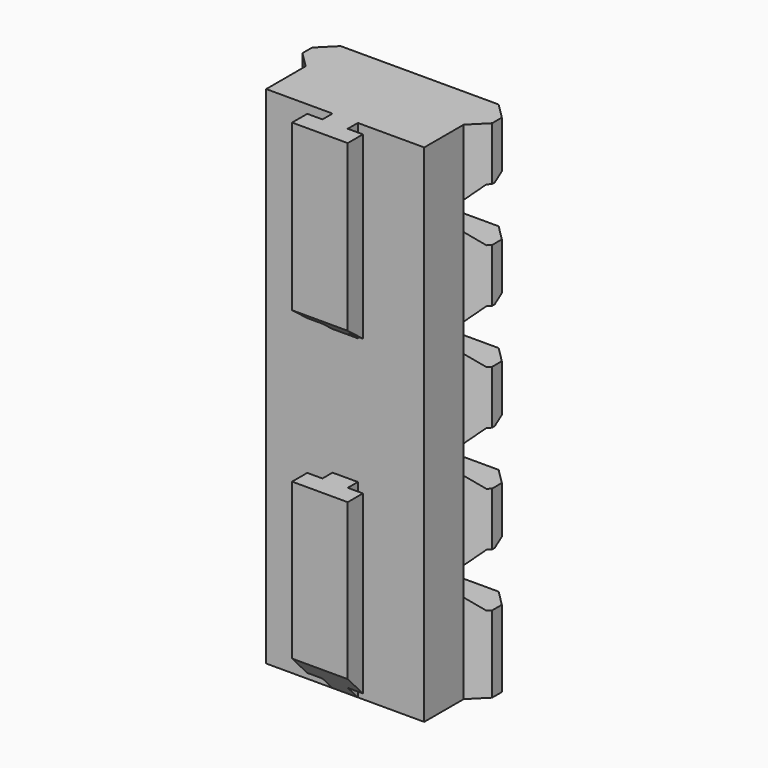
from build123d import *

# Parameters (mm, degrees)
F0_W      = 15.875
F0_H      = 4.953
F1_DEPTH  = 50.8
F3_DEPTH  = 50.8
F4_W      = 5.588
F4_H      = 3.175
F5_DEPTH  = 50.8
F6_W      = 5.588
F6_H      = 12.7
F7_DEPTH  = 3.175
F8_W      = 1.524
F8_H      = 1.27
F9_DEPTH  = 50.801
F11_DEPTH = 5.588
F12_W     = 4.3942
F12_H     = 5.3848
F13_DEPTH = 25.4
F14_SIZE  = 1.27
F15_SIZE  = 0.635


with BuildPart() as f1:
    # F0 (on Top) → F1 (new body)
    with BuildSketch(Plane.XY):
        with Locations((13.4436743471, 8.5170986131)):
            Rectangle(F0_W, F0_H)
    extrude(amount=F1_DEPTH)

    # F2 (on face) → F3 (join)
    with BuildSketch(Plane.XY.offset(50.8)):
        Polygon((3.9186743471, 12.5810986131), (5.5061743471, 10.9935986131), (21.3811743471, 10.9935986131), (22.9686743471, 12.5810986131), (22.9686743471, 13.8002986131), (21.3811743471, 15.3877986131), (5.5061743471, 15.3877986131), (3.9186743471, 13.8002986131), align=None)
    extrude(amount=-F3_DEPTH)

    # F4 (on face) → F5 (join, through all)
    with BuildSketch(Plane.XY.offset(50.8)):
        with Locations((13.4436743471, 4.4530986131)):
            Rectangle(F4_W, F4_H)
    extrude(amount=-F5_DEPTH)

    # F6 (on face) → F7 (cut, through all)
    with BuildSketch(Plane.XZ.offset(-2.8655986131)):
        with Locations((13.4436743471, 25.4)):
            Rectangle(F6_W, F6_H)
    extrude(amount=-F7_DEPTH, mode=Mode.SUBTRACT)

    # F8 (on face) → F9 (cut, through all)
    with BuildSketch(Plane(origin=(0, 0, 0), x_dir=(1, 0, 0), z_dir=(0, 0, -1))):
        with Locations((15.4756743471, -5.4055986131)):
            Rectangle(F8_W, F8_H)
        with Locations((11.4116743471, -5.4055986131)):
            Rectangle(F8_W, F8_H)
    extrude(amount=-F9_DEPTH, mode=Mode.SUBTRACT)

    # F10 (on face) → F11 (cut, through all)
    with BuildSketch(Plane.YZ.offset(16.2376743471)):
        Polygon((6.0405986131, 0), (2.8655986131, 3.4018158913), (2.8655986131, 0), align=None)
        Polygon((6.0405986131, 31.75), (2.8655986131, 34.2048890889), (2.8655986131, 31.75), align=None)
    extrude(amount=-F11_DEPTH, mode=Mode.SUBTRACT)

    # F12 (on face) → F13 (cut, symmetric)
    with BuildSketch(Plane.YZ.offset(21.3811743471)):
        with Locations((13.1906986131, 42.7228)):
            Rectangle(F12_W, F12_H)
        with Locations((13.1906986131, 31.9532)):
            Rectangle(F12_W, F12_H)
        with Locations((13.1906986131, 21.1836)):
            Rectangle(F12_W, F12_H)
        with Locations((13.1906986131, 10.414)):
            Rectangle(F12_W, F12_H)
    extrude(amount=F13_DEPTH, both=True, mode=Mode.SUBTRACT)

    # F14
    f14_edges = [f1.edges().sort_by_distance(p)[0] for p in [
        (13.443674, 10.993599, 7.7216),
        (13.443674, 10.993599, 13.1064),
        (13.443674, 10.993599, 18.4912),
        (13.443674, 10.993599, 23.876),
        (13.443674, 10.993599, 29.2608),
        (13.443674, 10.993599, 34.6456),
        (13.443674, 10.993599, 40.0304),
        (13.443674, 10.993599, 45.4152),
    ]]
    chamfer(f14_edges, length=F14_SIZE)

    # F15
    f15_edges = [f1.edges().sort_by_distance(p)[0] for p in [
        (13.443674, 15.387799, 34.6456),
        (13.443674, 15.387799, 23.876),
        (13.443674, 15.387799, 13.1064),
        (13.443674, 15.387799, 45.4152),
        (22.174924, 14.594049, 45.4152),
        (22.174924, 14.594049, 34.6456),
        (22.174924, 14.594049, 23.876),
        (22.174924, 14.594049, 13.1064),
        (4.712424, 14.594049, 13.1064),
        (4.712424, 14.594049, 23.876),
        (4.712424, 14.594049, 34.6456),
        (4.712424, 14.594049, 45.4152),
    ]]
    chamfer(f15_edges, length=F15_SIZE)


solid = f1.part
